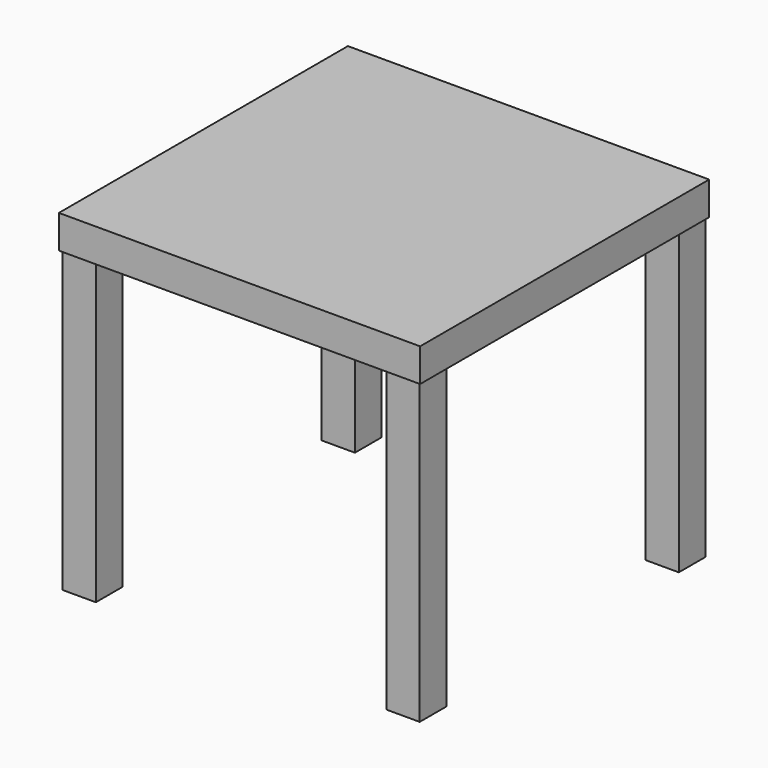
from build123d import *

# Parameters (mm, degrees)
F1_W     = 50.8
F1_H     = 50.8
F2_DEPTH = 508
F5_W     = 50.8
F5_H     = 50.8
F6_DEPTH = 50.8
F8_W     = 552.45
F8_H     = 552.45
F8_W_2   = 546.1
F8_H_2   = 546.1
F9_DEPTH = 50.8


with BuildPart() as f2:
    # F1 (on Top) → F2 (new body)
    with BuildSketch(Plane.XY):
        with Locations((-247.65, 247.65)):
            Rectangle(F1_W, F1_H)
    extrude(amount=F2_DEPTH)


with BuildPart() as f3_1:
    # F3: instance of F2
    add(f2.part.mirror(Plane.YZ))


with BuildPart() as f4_1:
    # F4: instance of F2
    add(f2.part.mirror(Plane.XZ))


with BuildPart() as f4_2:
    # F4: instance of F3_1
    add(f3_1.part.mirror(Plane.XZ))


with BuildPart() as f6:
    # F5 (on face) → F6 (new body)
    with BuildSketch(Plane.XY.offset(508)):
        Polygon((-273.05, 222.25), (-273.05, -273.05), (273.05, -273.05), (273.05, 273.05), (-222.25, 273.05), (-222.25, 222.25), align=None)
        with Locations((-247.65, 247.65)):
            Rectangle(F5_W, F5_H)
    extrude(amount=-F6_DEPTH)


with BuildPart() as f2_1:
    add(f2.part)

    # F7: union F6, F3_1, F4_1, F4_2
    add(f6.part)
    add(f3_1.part)
    add(f4_1.part)
    add(f4_2.part)

    # F8 (on face) → F9 (join, through all)
    with BuildSketch(Plane.XY.offset(508)):
        Rectangle(F8_W, F8_H)
        Rectangle(F8_W_2, F8_H_2, mode=Mode.SUBTRACT)
    extrude(amount=-F9_DEPTH)


solid = f2_1.part
